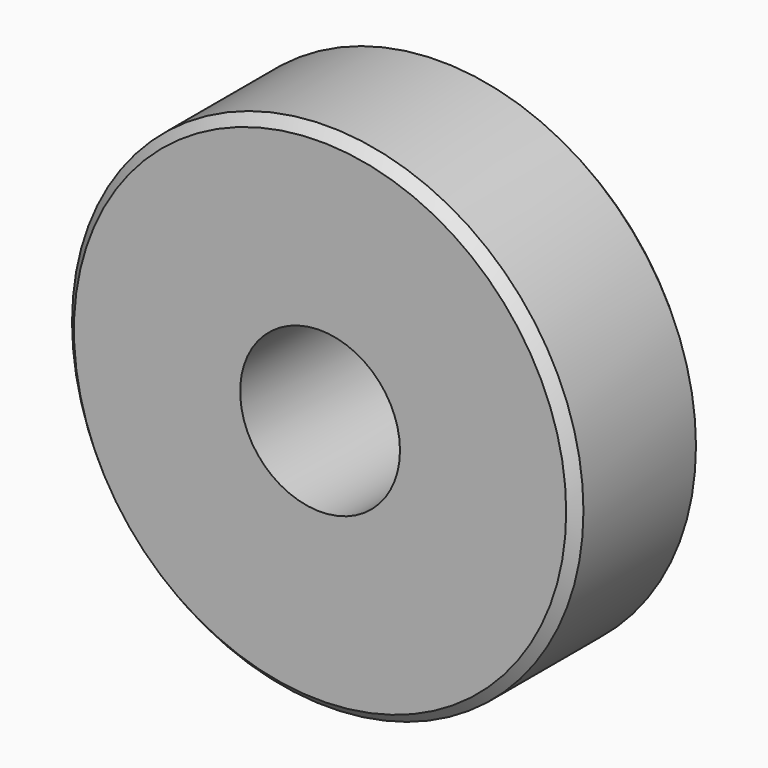
from build123d import *

# Parameters (mm, degrees)
F0_R     = 8
F0_R_2   = 2.5
F1_DEPTH = 5
F2_SIZE  = 0.3


with BuildPart() as f1:
    # F0 (on Front) → F1 (new body)
    with BuildSketch(Plane.XZ):
        Circle(F0_R)
        Circle(F0_R_2, mode=Mode.SUBTRACT)
    extrude(amount=F1_DEPTH)

    # F2
    f2_edges = [f1.edges().sort_by_distance(p)[0] for p in [
        (-8, 0, 0),
        (-8, -5, 0),
    ]]
    chamfer(f2_edges, length=F2_SIZE)


solid = f1.part
